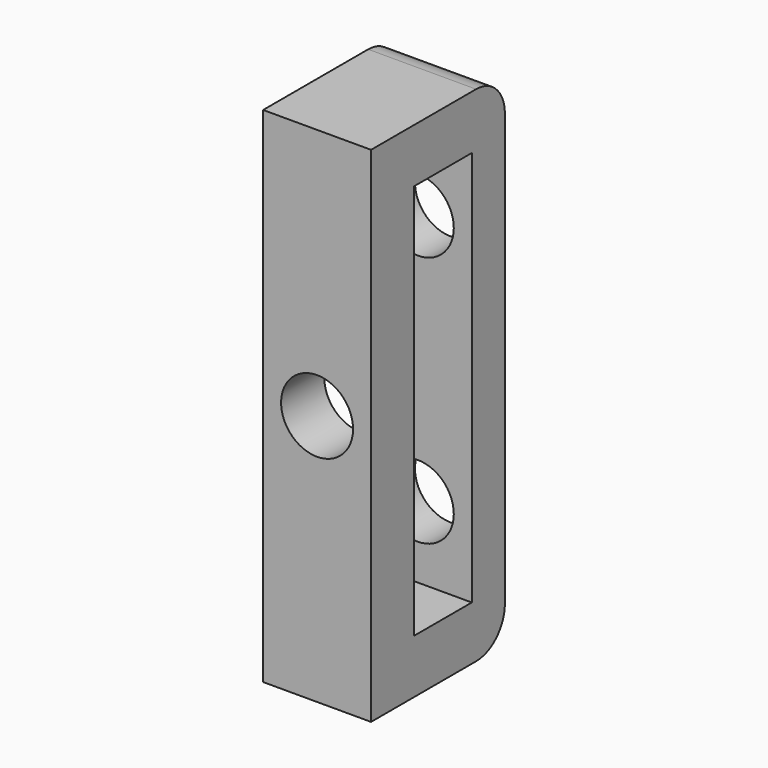
from build123d import *

# Parameters (mm, degrees)
BOX233_W          = 6
BOX233_H          = 4
BOX233_DEPTH      = 3
CYLINDER090_R     = 2
CYLINDER090_DEPTH = 5
CYLINDER089_R     = 2
CYLINDER089_DEPTH = 5
BOX223_W          = 6
BOX223_H          = 2.3
BOX223_DEPTH      = 28
FILLET060_R       = 2
BOX232_W          = 6
BOX232_H          = 4
BOX232_DEPTH      = 3
CYLINDER091_R     = 2
CYLINDER091_DEPTH = 5
BOX224_W          = 6
BOX224_H          = 3
BOX224_DEPTH      = 28


with BuildPart() as cube221:
    # Box233 → Box233 (new body)
    with BuildSketch(Plane(origin=(22.5, 53, -9.5), x_dir=(1, 0, 0), z_dir=(0, 0, 1))):
        with Locations((3, 2)):
            Rectangle(BOX233_W, BOX233_H)
    extrude(amount=BOX233_DEPTH)


with BuildPart() as cylinder171:
    # Cylinder090 → Cylinder090 (new body)
    with BuildSketch(Plane(origin=(25.5, 60, -27.5), x_dir=(1, 0, 0), z_dir=(0, -1, 0))):
        Circle(CYLINDER090_R)
    extrude(amount=CYLINDER090_DEPTH)


with BuildPart() as cylinder170:
    # Cylinder089 → Cylinder089 (new body)
    with BuildSketch(Plane(origin=(25.5, 60, -13.5), x_dir=(1, 0, 0), z_dir=(0, -1, 0))):
        Circle(CYLINDER089_R)
    extrude(amount=CYLINDER089_DEPTH)


with BuildPart() as fillet060:
    # Box223 → Box223 (new body)
    with BuildSketch(Plane(origin=(22.5, 57, -34.5), x_dir=(1, 0, 0), z_dir=(0, 0, 1))):
        with Locations((3, 1.15)):
            Rectangle(BOX223_W, BOX223_H)
    extrude(amount=BOX223_DEPTH)

    # Cut113: cut Cylinder170
    add(cylinder170.part, mode=Mode.SUBTRACT)

    # Cut114: cut Cylinder171
    add(cylinder171.part, mode=Mode.SUBTRACT)

    # Fillet060
    fillet060_edges = [fillet060.edges().sort_by_distance(p)[0] for p in [
        (25.5, 59.3, -6.5),
        (25.5, 59.3, -34.5),
    ]]
    fillet(fillet060_edges, radius=FILLET060_R)


with BuildPart() as cube220:
    # Box232 → Box232 (new body)
    with BuildSketch(Plane(origin=(22.5, 53, -34.5), x_dir=(1, 0, 0), z_dir=(0, 0, 1))):
        with Locations((3, 2)):
            Rectangle(BOX232_W, BOX232_H)
    extrude(amount=BOX232_DEPTH)


with BuildPart() as cylinder172:
    # Cylinder091 → Cylinder091 (new body)
    with BuildSketch(Plane(origin=(25.5, 54, -20.5), x_dir=(1, 0, 0), z_dir=(0, -1, 0))):
        Circle(CYLINDER091_R)
    extrude(amount=CYLINDER091_DEPTH)


with BuildPart() as fusion074:
    # Box224 → Box224 (new body)
    with BuildSketch(Plane(origin=(22.5, 50, -34.5), x_dir=(1, 0, 0), z_dir=(0, 0, 1))):
        with Locations((3, 1.5)):
            Rectangle(BOX224_W, BOX224_H)
    extrude(amount=BOX224_DEPTH)

    # Cut126: cut Cylinder172
    add(cylinder172.part, mode=Mode.SUBTRACT)

    # Fusion074: union Cube221, Fillet060, Cube220
    add(cube221.part)
    add(fillet060.part)
    add(cube220.part)


with BuildPart() as fusion074_1:
    # Fusion074 placement: moved
    add(fusion074.part.moved(Location((68, 0, 0))))


solid = fusion074_1.part
